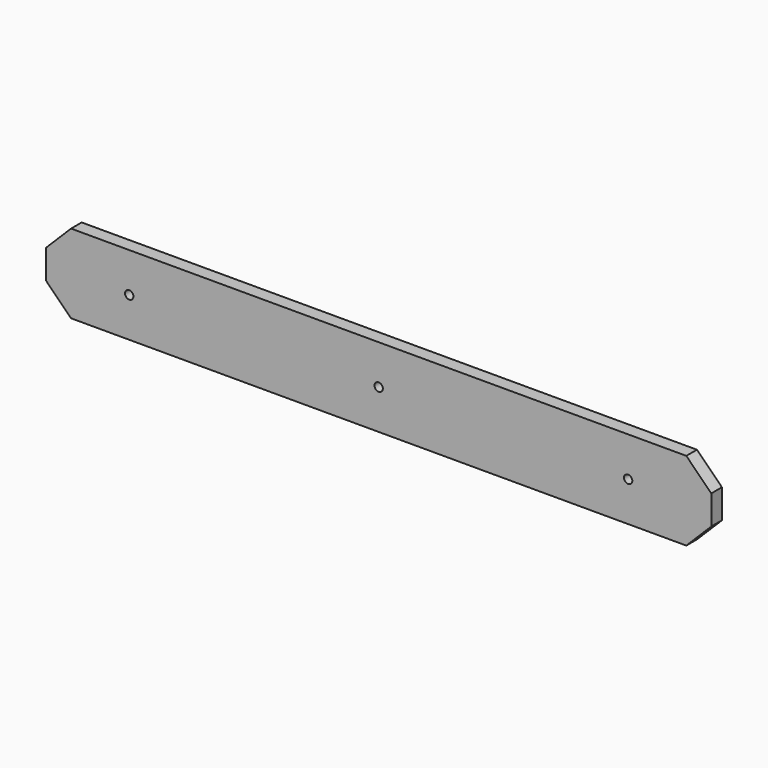
from build123d import *

# Parameters (mm, degrees)
F0_W     = 800
F0_H     = 95
F1_DEPTH = 8
F2_SIZE  = 30
F4_D     = 10


with BuildPart() as f1:
    # F0 (on Front) → F1 (new body, symmetric)
    with BuildSketch(Plane.XZ):
        Rectangle(F0_W, F0_H)
    extrude(amount=F1_DEPTH, both=True)

    # F2
    f2_edges = [f1.edges().sort_by_distance(p)[0] for p in [
        (-400, 0, -47.5),
        (-400, 0, 47.5),
        (400, 0, -47.5),
        (400, 0, 47.5),
    ]]
    chamfer(f2_edges, length=F2_SIZE)

    # F4 (through all)
    with Locations(Plane.XZ.offset(8)):
        with Locations((0, 0), (300, 0), (-300, 0)):
            Hole(F4_D / 2)


solid = f1.part
